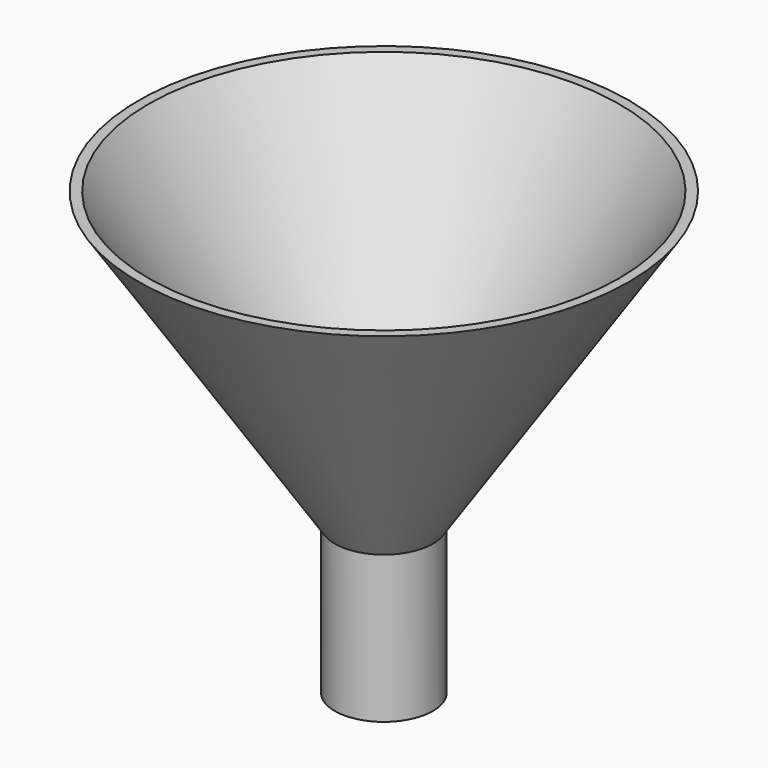
from build123d import *

# Parameters (mm, degrees)
CYLINDER001_R     = 4
CYLINDER001_DEPTH = 15
CYLINDER_R        = 5
CYLINDER_DEPTH    = 15


with BuildPart() as con001:
    # Cone001 → Cone001 (revolve)
    with BuildSketch(Plane.XZ):
        Polygon((0, 0), (4, 0), (24, 30), (0, 30), align=None)
    revolve(axis=Axis((0, 0, 0), (0, 0, 1)))


with BuildPart() as cut:
    # Cone → Cone (revolve)
    with BuildSketch(Plane.XZ):
        Polygon((0, 0), (5, 0), (25, 30), (0, 30), align=None)
    revolve(axis=Axis((0, 0, 0), (0, 0, 1)))

    # Cut: cut Con001
    add(con001.part, mode=Mode.SUBTRACT)


with BuildPart() as cilindre001:
    # Cylinder001 → Cylinder001 (new body)
    with BuildSketch(Plane.XY.offset(-15)):
        Circle(CYLINDER001_R)
    extrude(amount=CYLINDER001_DEPTH)


with BuildPart() as cut001:
    # Cylinder → Cylinder (new body)
    with BuildSketch(Plane.XY.offset(-15)):
        Circle(CYLINDER_R)
    extrude(amount=CYLINDER_DEPTH)

    # Cut001: cut Cilindre001
    add(cilindre001.part, mode=Mode.SUBTRACT)


solid = Compound([cut.part, cut001.part])
